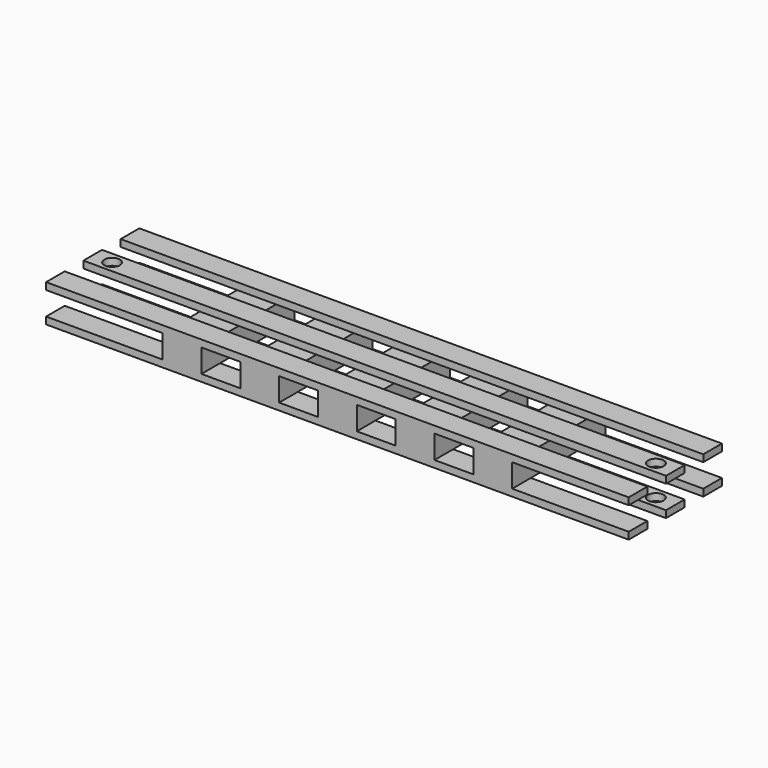
from build123d import *

# Parameters (mm, degrees)
F0_W     = 60
F0_H     = 18
F1_DEPTH = 1500
F2_W     = 100
F2_H     = 60
F3_DEPTH = 300
F4_R     = 20
F5_DEPTH = 96


with BuildPart() as f1:
    # F0 (on Right) → F1 (new body)
    with BuildSketch(Plane.YZ):
        with Locations((-39.5727836765, 84.7336053236)):
            Rectangle(F0_W, F0_H)
    extrude(amount=F1_DEPTH)



with BuildPart() as f1b:
    # F0 (on Right) → F1, piece 2 (new body)
    with BuildSketch(Plane.YZ):
        with Locations((80.4272163235, 84.7336053236)):
            Rectangle(F0_W, F0_H)
    extrude(amount=F1_DEPTH)


with BuildPart() as f1c:
    # F0 (on Right) → F1, piece 3 (new body)
    with BuildSketch(Plane.YZ):
        with Locations((200.4272163235, 84.7336053236)):
            Rectangle(F0_W, F0_H)
    extrude(amount=F1_DEPTH)


with BuildPart() as f1d:
    # F0 (on Right) → F1, piece 4 (new body)
    with BuildSketch(Plane.YZ):
        with Locations((-39.5727836765, 6.7336053236)):
            Rectangle(F0_W, F0_H)
    extrude(amount=F1_DEPTH)


with BuildPart() as f1e:
    # F0 (on Right) → F1, piece 5 (new body)
    with BuildSketch(Plane.YZ):
        with Locations((80.4272163235, 6.7336053236)):
            Rectangle(F0_W, F0_H)
    extrude(amount=F1_DEPTH)


with BuildPart() as f1f:
    # F0 (on Right) → F1, piece 6 (new body)
    with BuildSketch(Plane.YZ):
        with Locations((200.4272163235, 6.7336053236)):
            Rectangle(F0_W, F0_H)
    extrude(amount=F1_DEPTH)


with BuildPart() as f1_1:
    add(f1.part)

    add(f1b.part)  # F3 merges F1b

    add(f1c.part)  # F3 merges F1c

    add(f1d.part)  # F3 merges F1d

    add(f1e.part)  # F3 merges F1e

    add(f1f.part)  # F3 merges F1f
    # F2 (on face) → F3 (join)
    with BuildSketch(Plane(origin=(0, 230.4272163235, 0), x_dir=(-1, 0, 0), z_dir=(0, 1, 0))):
        with Locations((-350, 45.7336053236)):
            Rectangle(F2_W, F2_H)
        with Locations((-550, 45.7336053236)):
            Rectangle(F2_W, F2_H)
        with Locations((-750, 45.7336053236)):
            Rectangle(F2_W, F2_H)
        with Locations((-950, 45.7336053236)):
            Rectangle(F2_W, F2_H)
        with Locations((-1150, 45.7336053236)):
            Rectangle(F2_W, F2_H)
    extrude(amount=-F3_DEPTH)

    # F4 (on face) → F5 (cut, through all)
    with BuildSketch(Plane.XY.offset(93.7336053236)):
        with Locations((50, 80.4272163235)):
            Circle(F4_R)
        with Locations((1450, 80.4272163235)):
            Circle(F4_R)
    extrude(amount=-F5_DEPTH, mode=Mode.SUBTRACT)


solid = f1_1.part
